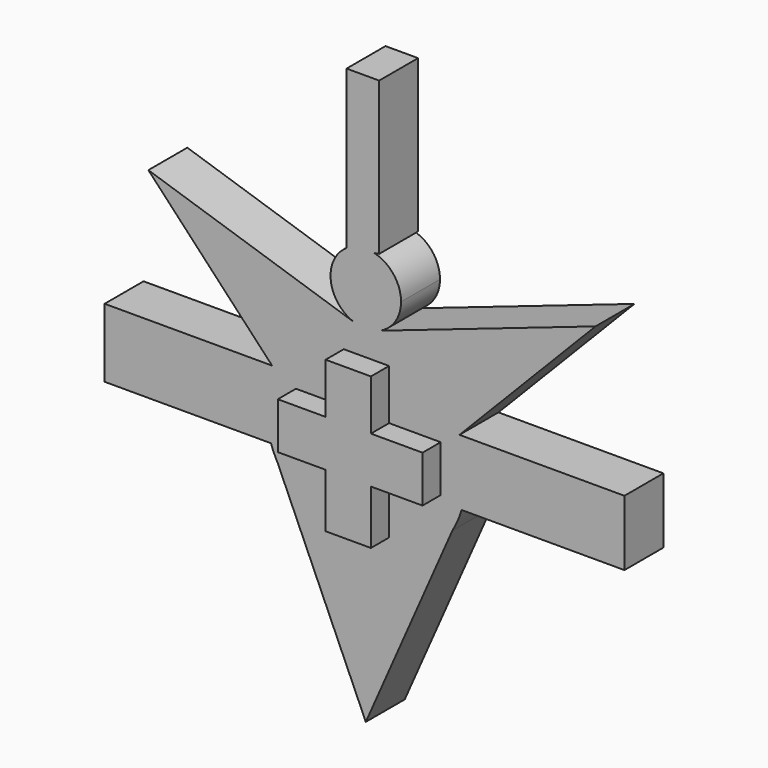
from build123d import *

# Parameters (mm, degrees)
F0_R      = 15.4644174612
F1_DEPTH  = 7.5
F3_DEPTH  = 3.5
F5_DEPTH  = 7.5
F7_DEPTH  = 7.5
F9_DEPTH  = 7.5
F11_DEPTH = 7.5
F13_DEPTH = 7.5
F15_DEPTH = 7.5
F17_DEPTH = 7.5
F18_W     = 5.4945703596
F18_H     = 28.8444776088
F19_DEPTH = 7.5
F22_DEPTH = 7.5


with BuildPart() as f1:
    # F0 (on Front) → F1 (new body)
    with BuildSketch(Plane.XZ):
        Circle(F0_R)
    extrude(amount=-F1_DEPTH)

    # F2 (on Front) → F3 (join)
    with BuildSketch(Plane.XZ):
        Polygon((3.5883630626, 11.3469837233), (-3.3943967428, 11.3469837233), (-3.3943967428, 3.5883623641), (-10.7650868595, 3.5883623641), (-10.7650868595, -3.5883623641), (-3.3943967428, -3.5883623641), (-3.3943967428, -11.9288796559), (3.5883630626, -11.9288796559), (3.5883630626, -3.5883623641), (11.5409484133, -3.5883623641), (11.5409484133, 3.5883623641), (3.5883630626, 3.5883623641), align=None)
    extrude(amount=F3_DEPTH)

    # F4 (on face) → F5 (join)
    with BuildSketch(Plane.XZ):
        with BuildLine():
            Line((-40.2478465542, -5.0589637569), (-14.6135243224, -5.0589637569))
            ThreePointArc((-14.6135243224, -5.0589637569), (-15.4624028659, 0.2496097512), (-14.442618561, 5.5280174129))
            Line((-14.442618561, 5.5280174129), (-40.2478465542, 5.5280174129))
            Line((-40.2478465542, 5.5280174129), (-40.2478465542, -5.0589637569))
        make_face()
    extrude(amount=-F5_DEPTH)

    # F6 (on face) → F7 (join)
    with BuildSketch(Plane.XZ):
        with BuildLine():
            Line((39.8599132895, 5.5280174129), (14.442618561, 5.5280174129))
            ThreePointArc((14.442618561, 5.5280174129), (15.4559066, 0.512989853), (14.7773852023, -4.5581897721))
            Line((14.7773852023, -4.5581897721), (39.8599132895, -4.5581897721))
            Line((39.8599132895, -4.5581897721), (39.8599132895, 5.5280174129))
        make_face()
    extrude(amount=-F7_DEPTH)

    # F8 (on face) → F9 (join)
    with BuildSketch(Plane.XZ):
        with BuildLine():
            ThreePointArc((13.3392752441, -7.8238061951), (-0.2412620254, -15.4625353694), (-13.5768721894, -7.4038333969))
            Line((-13.5768721894, -7.4038333969), (0, -38.1142273545))
            Line((0, -38.1142273545), (13.3392752441, -7.8238061951))
        make_face()
    extrude(amount=-F9_DEPTH)

    # F10 (on face) → F11 (join)
    with BuildSketch(Plane.XZ):
        with BuildLine():
            Line((1.4583327306, 20.6556674093), (-1.6825530911, 20.6556674093))
            Line((-1.6825530911, 20.6556674093), (-1.6825530911, 15.3955017152))
            Line((-1.6825530911, 15.3955017152), (-1.4583327306, 15.3955017152))
            ThreePointArc((-1.4583327306, 15.3955017152), (0, 15.4644174612), (1.4583327306, 15.3955017152))
            Line((1.4583327306, 15.3955017152), (1.4583327306, 20.6556674093))
        make_face()
    extrude(amount=-F11_DEPTH)

    # F12 (on face) → F13 (join)
    with BuildSketch(Plane.XZ):
        with BuildLine():
            ThreePointArc((1.4583327306, 15.4214656697), (4.3270974304, 17.3693579241), (5.4335625702, 20.6556674093))
            ThreePointArc((5.4335625702, 20.6556674093), (-3.1922832508, 25.05259018), (-1.6825530911, 15.4891775661))
            Line((-1.6825530911, 15.4891775661), (-1.6825530911, 20.6556674093))
            Line((-1.6825530911, 20.6556674093), (1.4583327306, 20.6556674093))
            Line((1.4583327306, 20.6556674093), (1.4583327306, 15.4214656697))
        make_face()
    extrude(amount=-F13_DEPTH)

    # F14 (on face) → F15 (join)
    with BuildSketch(Plane.XZ):
        with BuildLine():
            Line((35.3987067938, 27.0581915975), (2.0601032187, 15.6277874452))
            ThreePointArc((2.0601032187, 15.6277874452), (1.7622400662, 15.5158121435), (1.4583327306, 15.4214656697))
            Line((1.4583327306, 15.4214656697), (1.4583327306, 15.3955017152))
            ThreePointArc((1.4583327306, 15.3955017152), (9.3569158706, 12.312446256), (14.442618561, 5.5280174129))
            Line((14.442618561, 5.5280174129), (35.3987067938, 27.0581915975))
        make_face()
    extrude(amount=-F15_DEPTH)

    # F16 (on face) → F17 (join)
    with BuildSketch(Plane.XZ):
        with BuildLine():
            Line((-1.6825530911, 15.3955017152), (-1.6825530911, 15.4891775661))
            Line((-1.6825530911, 15.4891775661), (-33.5039995381, 25.8523592827))
            Line((-33.5039995381, 25.8523592827), (-14.442618561, 5.5280174129))
            ThreePointArc((-14.442618561, 5.5280174129), (-9.3569158706, 12.312446256), (-1.4583327306, 15.3955017152))
            Line((-1.4583327306, 15.3955017152), (-1.6825530911, 15.3955017152))
        make_face()
    extrude(amount=-F17_DEPTH)

    # F21 (on face) → F22 (join)
    with BuildSketch(Plane.XZ):
        with BuildLine():
            Line((-2.9614820185, 49.562137616), (-2.9614820185, 25.2112383349))
            ThreePointArc((-2.9614820185, 25.2112383349), (-0.8941182921, 26.0151594267), (1.3222555048, 25.9258896612))
            Line((1.3222555048, 25.9258896612), (2.0601032187, 26.0489840022))
            Line((2.0601032187, 26.0489840022), (2.0601032187, 49.562137616))
            Line((2.0601032187, 49.562137616), (-2.9614820185, 49.562137616))
        make_face()
    extrude(amount=-F22_DEPTH)


with BuildPart() as f19:
    # F18 (on Front) → F19 (new body)
    with BuildSketch(Plane.XZ):
        with Locations((0.3433788661, 40.6340872869)):
            Rectangle(F18_W, F18_H)
    extrude(amount=-F19_DEPTH)


solid = f1.part
